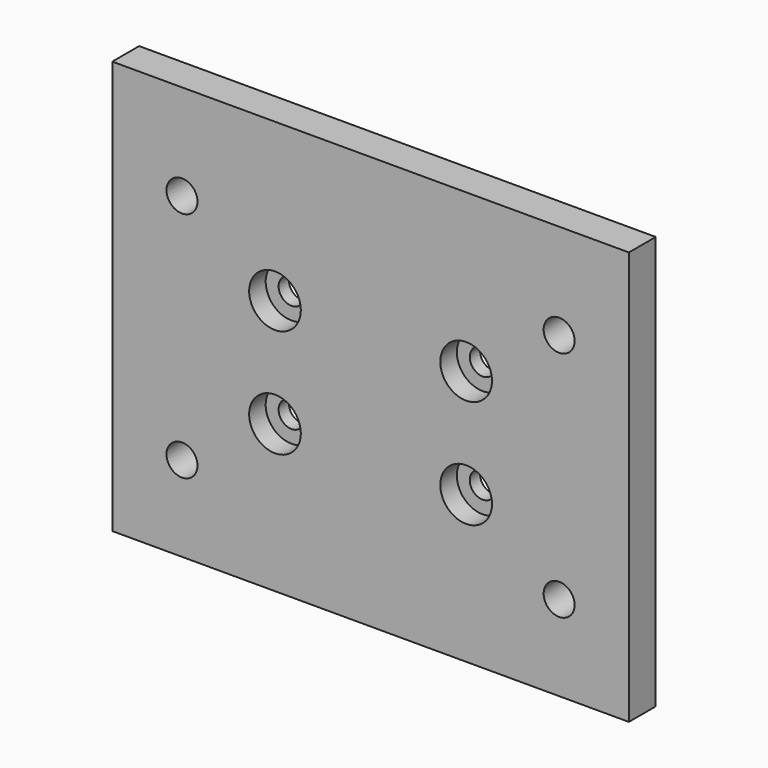
from build123d import *

# Parameters (mm, degrees)
SKETCH001_W     = 100
SKETCH001_H     = 80
PAD_DEPTH       = 6.5
SKETCH004_R     = 2.5
POCKET_DEPTH    = 10
SKETCH_R        = 5
POCKET001_DEPTH = 4
SKETCH005_R     = 3
POCKET002_DEPTH = 10


with BuildPart() as part:
    # Sketch001 → Pad (new body)
    with BuildSketch(Plane.XZ):
        with Locations((0, 20.5)):
            Rectangle(SKETCH001_W, SKETCH001_H)
    extrude(amount=PAD_DEPTH)

    # Sketch004 → Pocket (cut)
    with BuildSketch(Plane(origin=(0, 0, 0), x_dir=(1, 0, 0), z_dir=(0, 1, 0))):
        with Locations((-18.5, -9)):
            Circle(SKETCH004_R)
        with Locations((18.5, -9)):
            Circle(SKETCH004_R)
        with Locations((-18.5, -30)):
            Circle(SKETCH004_R)
        with Locations((18.5, -30)):
            Circle(SKETCH004_R)
    extrude(amount=-POCKET_DEPTH, mode=Mode.SUBTRACT)

    # Sketch → Pocket001 (cut)
    with BuildSketch(Plane.XZ.offset(6.5)):
        with Locations((18.5, 9)):
            Circle(SKETCH_R)
        with Locations((18.5, 30)):
            Circle(SKETCH_R)
        with Locations((-18.5, 9)):
            Circle(SKETCH_R)
        with Locations((-18.5, 30)):
            Circle(SKETCH_R)
    extrude(amount=-POCKET001_DEPTH, mode=Mode.SUBTRACT)

    # Sketch005 → Pocket002 (cut)
    with BuildSketch(Plane.XZ.offset(6.5)):
        with Locations((36.5, -3)):
            Circle(SKETCH005_R)
        with Locations((36.5, 42)):
            Circle(SKETCH005_R)
        with Locations((-36.5, -3)):
            Circle(SKETCH005_R)
        with Locations((-36.5, 42)):
            Circle(SKETCH005_R)
    extrude(amount=-POCKET002_DEPTH, mode=Mode.SUBTRACT)


solid = part.part
